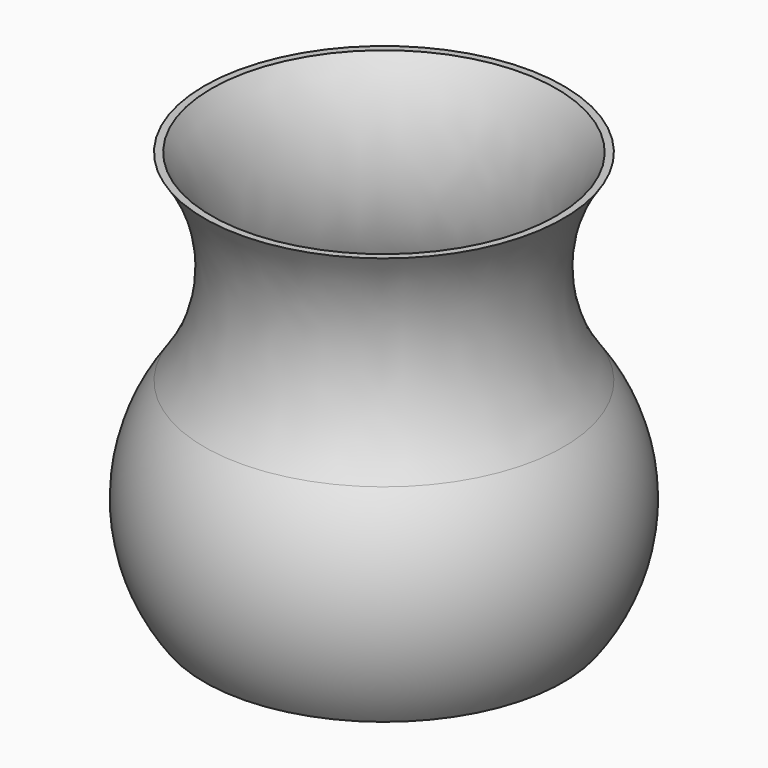
from build123d import *


with BuildPart() as f1:
    # F0 (on Front) → F1 (revolve)
    with BuildSketch(Plane.XZ):
        with BuildLine():
            ThreePointArc((-76.2, 0), (-90.507856, 44.45), (-76.2, 88.9))
            ThreePointArc((-76.2, 88.9), (-61.892144, 133.35), (-76.2, 177.8))
            Line((-76.2, 177.8), (-79.375, 177.8))
            ThreePointArc((-79.375, 177.8), (-65.067144, 133.35), (-79.375, 88.9))
            ThreePointArc((-79.375, 88.9), (-94.615, 43.18), (-79.375, -2.54))
            Line((-79.375, -2.54), (0, -2.54))
            Line((0, -2.54), (0, 0))
            Line((0, 0), (-76.2, 0))
        make_face()
    revolve(axis=Axis((0, 0, 38.1), (0, 0, 1)))


solid = f1.part
